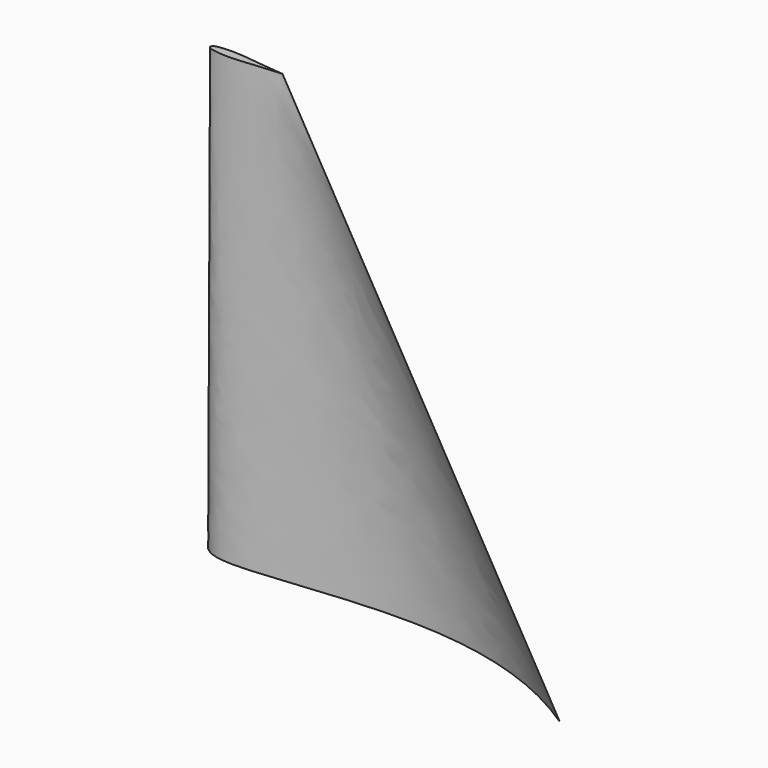
from build123d import *


with BuildPart() as f5:
    # F1 (on Top) → F5 section 0
    with BuildSketch(Plane.XY):
        with BuildLine():
            add(Edge.make_bspline(
                [(0, 0), (0.0440063586, 0.409431681), (0.1546846219, 1.4414647289), (-0.1114693283, 5.7238481705), (29.4525990579, 24.8377661758), (58.2377080718, 24.9879189896), (109.483923161, 16.571563408), (146.7073261738, -10.9125114977), (163.601369, -25.411966)],
                knots=[0, 0, 0, 0, 0.0388337093, 0.0978835981, 0.2889444211, 0.4770622507, 0.7174839565, 1, 1, 1, 1], degree=3))
            add(Edge.make_bspline(
                [(0, 0), (0.0121094035, -0.3824046329), (0.0453150814, -1.4266876695), (3.5702202446, -4.5436223563), (17.3202002764, -7.4214367505), (86.1593831246, 4.2882119759), (136.779487133, -7.4213282205), (163.601369, -25.411966)],
                knots=[0, 0, 0, 0, 0.0462761464, 0.1267294999, 0.2719885081, 0.6117620718, 1, 1, 1, 1], degree=3))
        make_face()
    # F4 (on offset) → F5 section 1
    with BuildSketch(Plane.XY.offset(180)):
        with BuildLine():
            add(Edge.make_bspline(
                [(0, 0), (0.1648478812, 0.1953382552), (0.491126294, 0.5819653407), (1.0445035175, 1.3120487734), (8.9465250618, 2.2426400689), (20.3996964187, 0.4437058296), (26.939565184, -0.1222147005), (29.99808, -0.38688)],
                knots=[0, 0, 0, 0, 0.0777143388, 0.1538176344, 0.3973383702, 0.7181519095, 1, 1, 1, 1], degree=3))
            add(Edge.make_bspline(
                [(0, 0), (0.1616671977, -0.197416237), (0.4819426498, -0.5885133516), (1.0221510677, -1.325482985), (8.8869122817, -2.4930717144), (20.3887763929, -1.0274488986), (26.9361002837, -0.5909956211), (29.99808, -0.38688)],
                knots=[0, 0, 0, 0, 0.077646559, 0.1538239492, 0.3973529836, 0.718160737, 1, 1, 1, 1], degree=3))
        make_face()
    loft()


solid = f5.part
